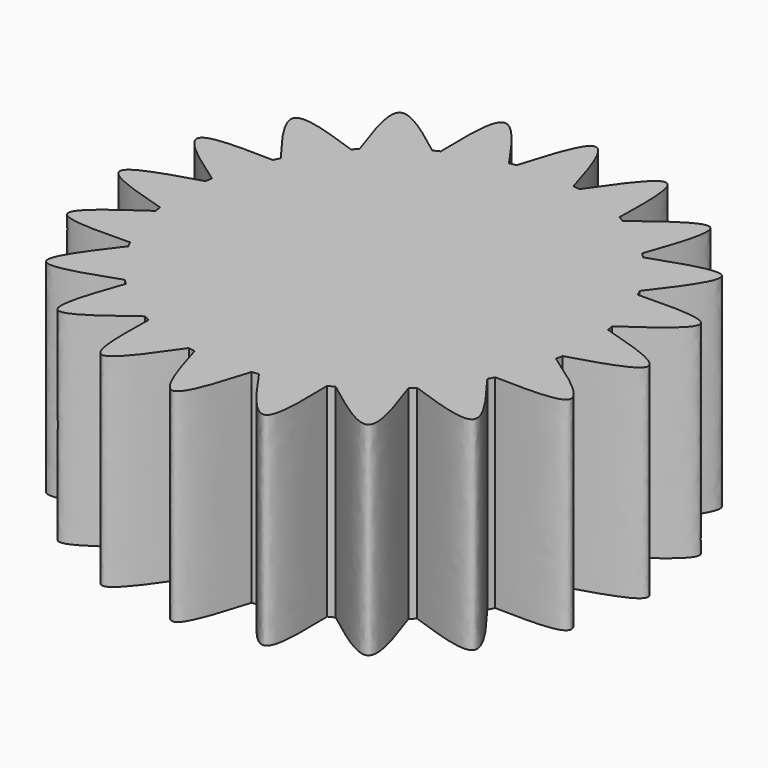
from build123d import *

# Parameters (mm, degrees)
F1_DEPTH = 5
F2_COUNT = 20


with BuildPart() as f1:
    # F0 (on Top) → F1 (new body)
    with BuildSketch(Plane.XY):
        with BuildLine():
            ThreePointArc((-4.9507575178, -0.7), (0.3508649391, -4.9876741869), (5, 0))
            ThreePointArc((5, 0), (0.3508649391, 4.9876741869), (-4.9507575178, 0.7))
            ThreePointArc((-4.9507575178, 0.7), (-5, 0), (-4.9507575178, -0.7))
        make_face()
        with BuildLine():
            ThreePointArc((-4.9507575178, -0.7), (-5, 0), (-4.9507575178, 0.7))
            add(Edge.make_bspline(
                [(-4.9507575178, -0.7), (-5.731620651, -0.4666666667), (-7.268379349, 0), (-5.731620651, 0.4666666667), (-4.9507575178, 0.7)],
                knots=[0, 0, 0, 0, 0.5, 1, 1, 1, 1], degree=3))
        make_face()
    extrude(amount=F1_DEPTH)

    # F2: F1 ×20 about axis
    f2_axis = Axis((0, 0, 0), (0, 0, 1))


with BuildPart() as f1_1:
    add(f1.part)
    for i in range(1, F2_COUNT):
        add(f1.part.rotate(f2_axis, i * 360 / F2_COUNT))


solid = f1_1.part
